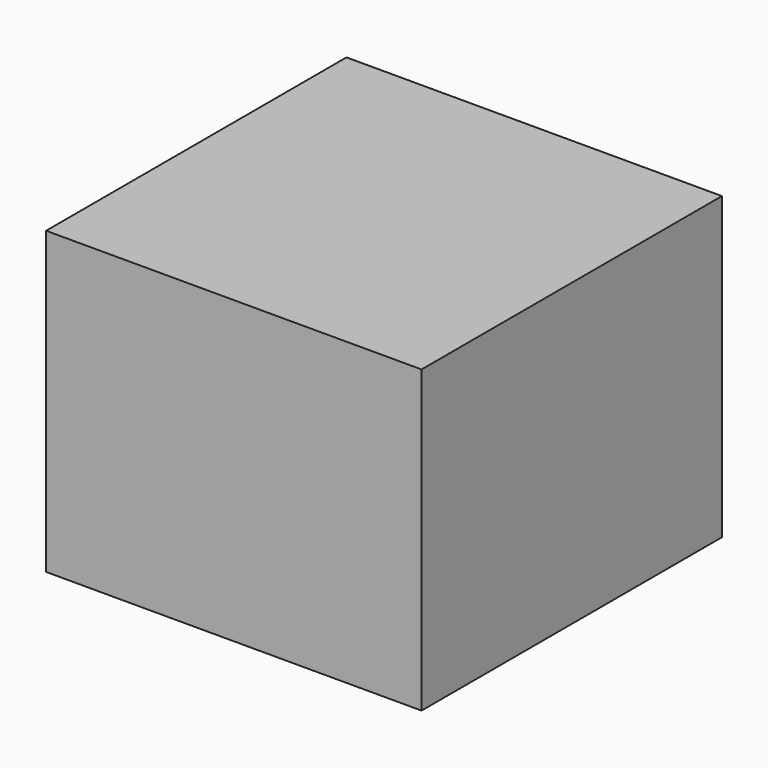
from build123d import *

# Parameters (mm, degrees)
F0_W     = 127
F0_H     = 127
F2_DEPTH = 101.6
F3_DEPTH = 25.4


with BuildPart() as f2:
    # F0 (on Top) → F2 (new body)
    with BuildSketch(Plane.XY):
        with Locations((-12.337083, 12.623387)):
            Rectangle(F0_W, F0_H)
    extrude(amount=F2_DEPTH)

    # F1 (on face) → F3 (cut)
    with BuildSketch(Plane.XY):
        Polygon((50.900102, -50.876613), (40.279156, -50.876613), (50.900102, -50.929062), align=None)
    extrude(amount=-F3_DEPTH, mode=Mode.SUBTRACT)


solid = f2.part
